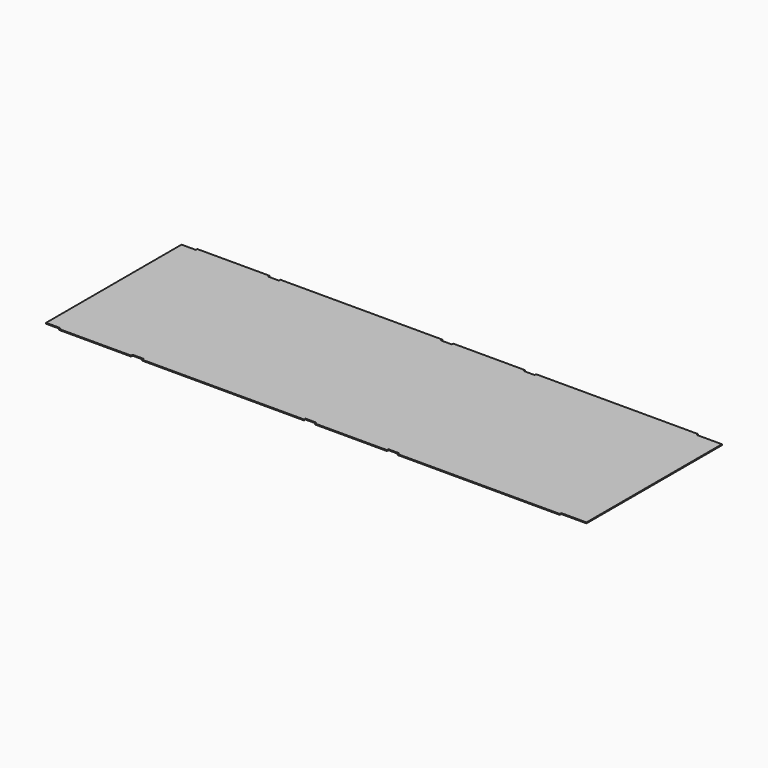
from build123d import *

# Parameters (mm, degrees)
F0_W     = 1854.2
F0_H     = 596.9
F1_DEPTH = 3.175
F2_W     = 571.5
F2_H     = 6.35
F2_W_2   = 254
F2_W_3   = 50.8
F2_H_2   = 596.9
F3_DEPTH = 3.175


with BuildPart() as f1:
    # F0 (on Top) → F1 (new body)
    with BuildSketch(Plane.XY):
        with Locations((349.25, 0)):
            Rectangle(F0_W, F0_H)
    extrude(amount=F1_DEPTH)

    # F2 (on face) → F3 (join)
    with BuildSketch(Plane.XY.offset(3.175)):
        with Locations((901.7, 301.625)):
            Rectangle(F2_W, F2_H)
        with Locations((450.85, 301.625)):
            Rectangle(F2_W_2, F2_H)
        with Locations((0, 301.625)):
            Rectangle(F2_W, F2_H)
        with Locations((-450.85, -301.625)):
            Rectangle(F2_W_2, F2_H)
        with Locations((-603.25, 0)):
            Rectangle(F2_W_3, F2_H_2)
        with Locations((-450.85, 301.625)):
            Rectangle(F2_W_2, F2_H)
        with Locations((0, -301.625)):
            Rectangle(F2_W, F2_H)
        with Locations((450.85, -301.625)):
            Rectangle(F2_W_2, F2_H)
        with Locations((901.7, -301.625)):
            Rectangle(F2_W, F2_H)
    extrude(amount=-F3_DEPTH)


solid = f1.part
